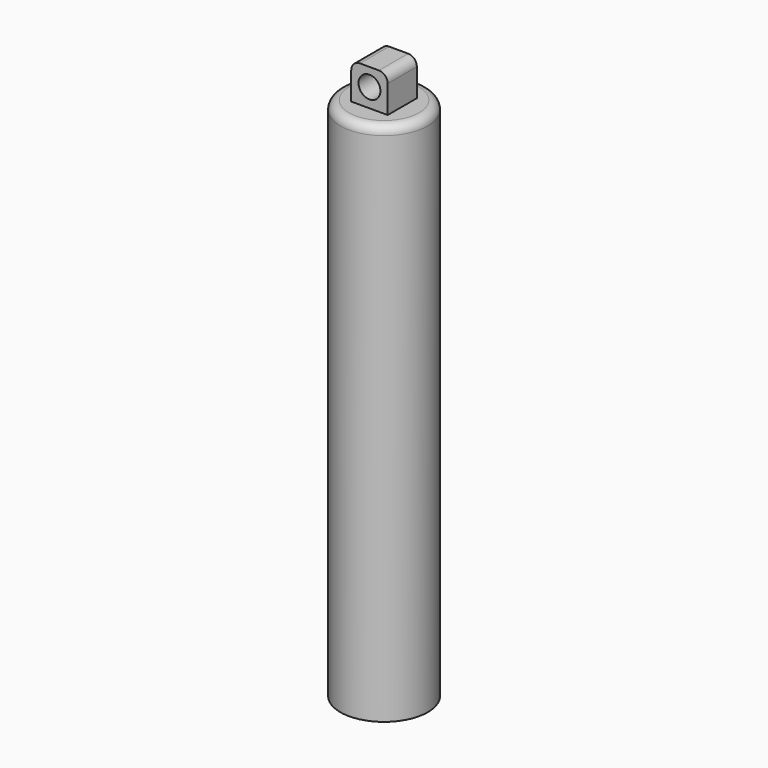
from build123d import *

# Parameters (mm, degrees)
F0_R     = 38.1
F1_DEPTH = 457.2
F2_W     = 31.75
F2_H     = 63.5
F2_R     = 9.525
F3_DEPTH = 15.875
F4_R     = 7.62
F5_R     = 15.875
F6_DEPTH = 450.85


with BuildPart() as f1:
    # F0 (on Top) → F1 (new body)
    with BuildSketch(Plane.XY):
        Circle(F0_R)
    extrude(amount=-F1_DEPTH)

    # F2 (on Front) → F3 (join, symmetric)
    with BuildSketch(Plane.XZ):
        Rectangle(F2_W, F2_H)
        with Locations((0, 16.3000393659)):
            Circle(F2_R, mode=Mode.SUBTRACT)
    extrude(amount=F3_DEPTH, both=True)

    # F4
    f4_edges = [f1.edges().sort_by_distance(p)[0] for p in [
        (15.875, 0, 31.75),
        (-15.875, 0, 31.75),
        (-38.1, 0, 0),
    ]]
    fillet(f4_edges, radius=F4_R)

    # F5 (on face) → F6 (cut)
    with BuildSketch(Plane(origin=(0, 0, -457.2), x_dir=(1, 0, 0), z_dir=(0, 0, -1))):
        Circle(F5_R)
    extrude(amount=-F6_DEPTH, mode=Mode.SUBTRACT)


solid = f1.part
